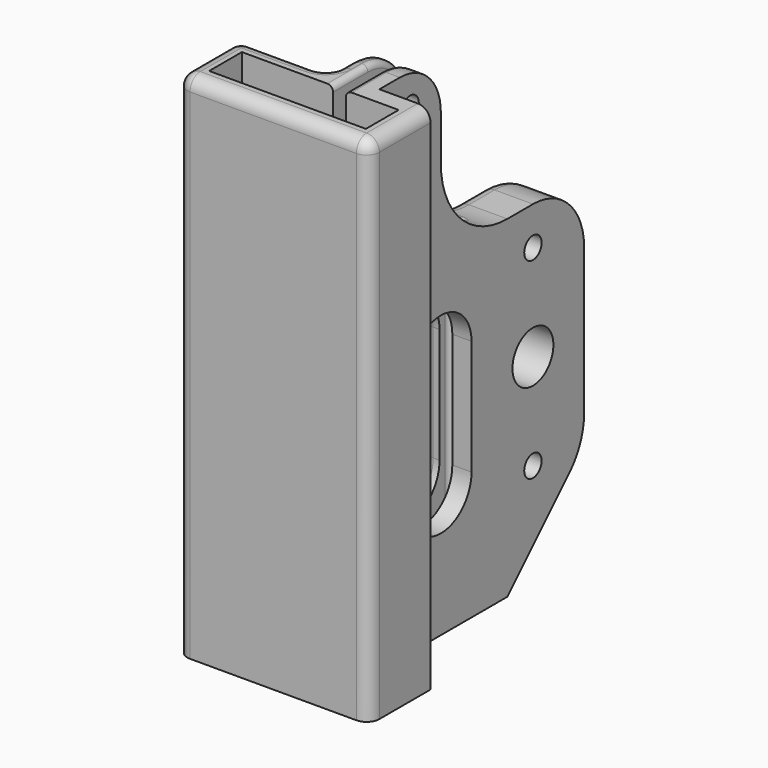
from build123d import *

# Parameters (mm, degrees)
PAD_DEPTH       = 80
POCKET_DEPTH    = 76
SKETCH002_R     = 1.7
SKETCH002_R_2   = 4
POCKET001_DEPTH = 16.001
POCKET002_DEPTH = 5
POCKET003_DEPTH = 22.001
CHAMFER_SIZE    = 15
FILLET_R        = 10
FILLET001_R     = 10
FILLET002_R     = 8
FILLET003_R     = 8
CHAMFER001_SIZE = 1.7
CHAMFER002_SIZE = 1.7
CHAMFER003_SIZE = 1.7
CHAMFER004_SIZE = 1.7
CHAMFER005_SIZE = 1.7
FILLET004_R     = 2
FILLET005_R     = 2
FILLET006_R     = 2
FILLET007_R     = 2
FILLET008_R     = 2
FILLET009_R     = 2
FILLET010_R     = 0.9
FILLET011_R     = 0.9
FILLET012_R     = 0.9


with BuildPart() as part:
    # Sketch → Pad (new body)
    with BuildSketch(Plane.XY):
        Polygon((-4, 0), (-4, 40), (4, 40), (4, 18), (4, 0), (12, 0), (12, -12), (-18, -12), (-18, 0), align=None)
    extrude(amount=PAD_DEPTH)

    # Sketch001 → Pocket (cut)
    with BuildSketch(Plane.XY.offset(80)):
        Polygon((1, -2.8), (1, 20), (-1, 20), (-1, -2.8), (-15.25, -2.8), (-15.25, -9.2), (9.25, -9.2), (9.25, -2.8), align=None)
    extrude(amount=-POCKET_DEPTH, mode=Mode.SUBTRACT)

    # Sketch002 → Pocket001 (cut, through all)
    with BuildSketch(Plane(origin=(-4, 0, 0), x_dir=(0, -1, 0), z_dir=(-1, 0, 0))):
        with Locations((-6, 7)):
            Circle(SKETCH002_R)
        with Locations((-6, 55)):
            Circle(SKETCH002_R)
        with Locations((-6, 75)):
            Circle(SKETCH002_R)
        with Locations((-30, 46)):
            Circle(SKETCH002_R)
        with Locations((-30, 16)):
            Circle(SKETCH002_R)
        with Locations((-30, 31)):
            Circle(SKETCH002_R_2)
    extrude(amount=-POCKET001_DEPTH, mode=Mode.SUBTRACT)

    # Sketch003 → Pocket002 (cut)
    with BuildSketch(Plane(origin=(0, 0, 0), x_dir=(1, 0, 0), z_dir=(0, 0, -1))):
        Polygon((-13.5, 7.5), (7.5, 7.5), (7.5, 4.5), (1, 4.5), (1, -20), (-1, -20), (-1, 4.5), (-13.5, 4.5), align=None)
    extrude(amount=-POCKET002_DEPTH, mode=Mode.SUBTRACT)

    # Sketch004 → Pocket003 (cut, through all)
    with BuildSketch(Plane.YZ.offset(4)):
        with BuildLine():
            Line((12, 85), (45, 85))
            Line((45, 85), (45, 52))
            Line((45, 52), (25, 52))
            ThreePointArc((12, 65), (15.807612, 55.807612), (25, 52))
            Line((12, 65), (12, 85))
        make_face()
        with BuildLine():
            ThreePointArc((18, 38), (12, 44), (6, 38))
            Line((6, 38), (6, 20))
            ThreePointArc((6, 20), (12, 14), (18, 20))
            Line((18, 38), (18, 20))
        make_face()
    extrude(amount=-POCKET003_DEPTH, mode=Mode.SUBTRACT)

    # Chamfer
    chamfer_edges = [part.edges().sort_by_distance(p)[0] for p in [
        (0, 40, 0),
    ]]
    chamfer(chamfer_edges, length=CHAMFER_SIZE)

    # Fillet
    fillet_edges = [part.edges().sort_by_distance(p)[0] for p in [
        (0, 40, 15),
    ]]
    fillet(fillet_edges, radius=FILLET_R)

    # Fillet001
    fillet001_edges = [part.edges().sort_by_distance(p)[0] for p in [
        (0, 40, 52),
    ]]
    fillet(fillet001_edges, radius=FILLET001_R)

    # Fillet002
    fillet002_edges = [part.edges().sort_by_distance(p)[0] for p in [
        (-2.5, 12, 80),
    ]]
    fillet(fillet002_edges, radius=FILLET002_R)

    # Fillet003
    fillet003_edges = [part.edges().sort_by_distance(p)[0] for p in [
        (2.5, 12, 80),
    ]]
    fillet(fillet003_edges, radius=FILLET003_R)

    # Chamfer001
    chamfer001_edges = [part.edges().sort_by_distance(p)[0] for p in [
        (-4, 7.7, 75),
    ]]
    chamfer(chamfer001_edges, length=CHAMFER001_SIZE)

    # Chamfer002
    chamfer002_edges = [part.edges().sort_by_distance(p)[0] for p in [
        (-4, 7.7, 55),
    ]]
    chamfer(chamfer002_edges, length=CHAMFER002_SIZE)

    # Chamfer003
    chamfer003_edges = [part.edges().sort_by_distance(p)[0] for p in [
        (-4, 31.7, 46),
    ]]
    chamfer(chamfer003_edges, length=CHAMFER003_SIZE)

    # Chamfer004
    chamfer004_edges = [part.edges().sort_by_distance(p)[0] for p in [
        (-4, 31.7, 16),
    ]]
    chamfer(chamfer004_edges, length=CHAMFER004_SIZE)

    # Chamfer005
    chamfer005_edges = [part.edges().sort_by_distance(p)[0] for p in [
        (-4, 7.7, 7),
    ]]
    chamfer(chamfer005_edges, length=CHAMFER005_SIZE)

    # Fillet004
    fillet004_edges = [part.edges().sort_by_distance(p)[0] for p in [
        (-4, 0, 40),
    ]]
    fillet(fillet004_edges, radius=FILLET004_R)

    # Fillet005
    fillet005_edges = [part.edges().sort_by_distance(p)[0] for p in [
        (-18, 0, 40),
    ]]
    fillet(fillet005_edges, radius=FILLET005_R)

    # Fillet006
    fillet006_edges = [part.edges().sort_by_distance(p)[0] for p in [
        (-18, -12, 40),
    ]]
    fillet(fillet006_edges, radius=FILLET006_R)

    # Fillet007
    fillet007_edges = [part.edges().sort_by_distance(p)[0] for p in [
        (12, -12, 40),
    ]]
    fillet(fillet007_edges, radius=FILLET007_R)

    # Fillet008
    fillet008_edges = [part.edges().sort_by_distance(p)[0] for p in [
        (-4, 40, 30.571068),
    ]]
    fillet(fillet008_edges, radius=FILLET008_R)

    # Fillet009
    fillet009_edges = [part.edges().sort_by_distance(p)[0] for p in [
        (-4, 18, 29),
    ]]
    fillet(fillet009_edges, radius=FILLET009_R)

    # Fillet010
    fillet010_edges = [part.edges().sort_by_distance(p)[0] for p in [
        (-1, 20, 29),
    ]]
    fillet(fillet010_edges, radius=FILLET010_R)

    # Fillet011
    fillet011_edges = [part.edges().sort_by_distance(p)[0] for p in [
        (1, 20, 29),
    ]]
    fillet(fillet011_edges, radius=FILLET011_R)

    # Fillet012
    fillet012_edges = [part.edges().sort_by_distance(p)[0] for p in [
        (1, 0.6, 80),
    ]]
    fillet(fillet012_edges, radius=FILLET012_R)


solid = part.part
